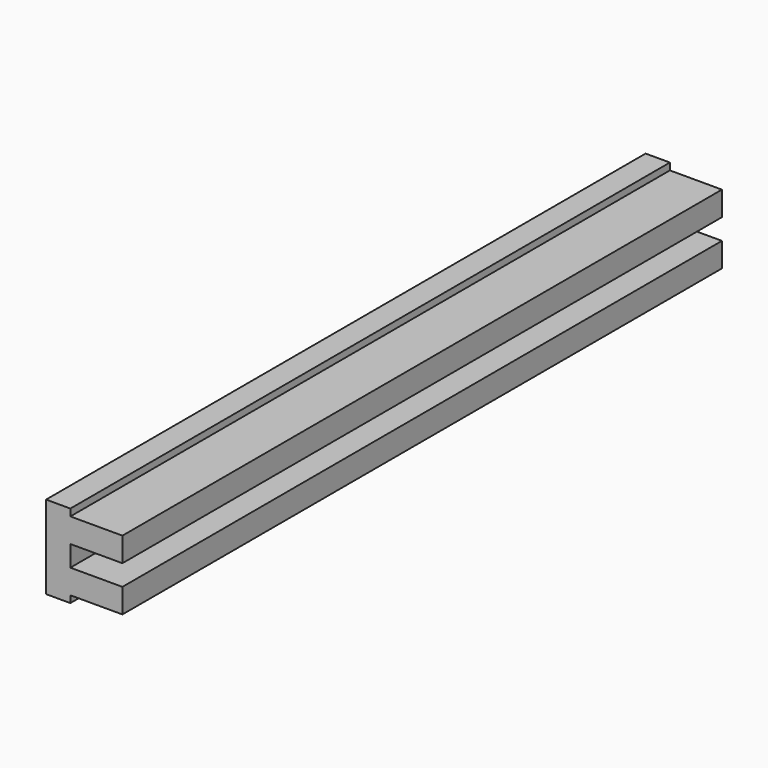
from build123d import *

# Parameters (mm, degrees)
F0_W     = 44.45
F0_H     = 152.4
F1_DEPTH = 1371.6
F2_W     = 1371.6
F2_H     = 44.45
F3_DEPTH = 95.25


with BuildPart() as f1:
    # F0 (on Front) → F1 (new body)
    with BuildSketch(Plane.XZ):
        with Locations((22.225, 76.2)):
            Rectangle(F0_W, F0_H)
    extrude(amount=F1_DEPTH)

    # F2 (on face) → F3 (join)
    with BuildSketch(Plane.YZ.offset(44.45)):
        with Locations((-685.8, 117.475)):
            Rectangle(F2_W, F2_H)
        with Locations((-685.8, 34.925)):
            Rectangle(F2_W, F2_H)
    extrude(amount=F3_DEPTH)


solid = f1.part
